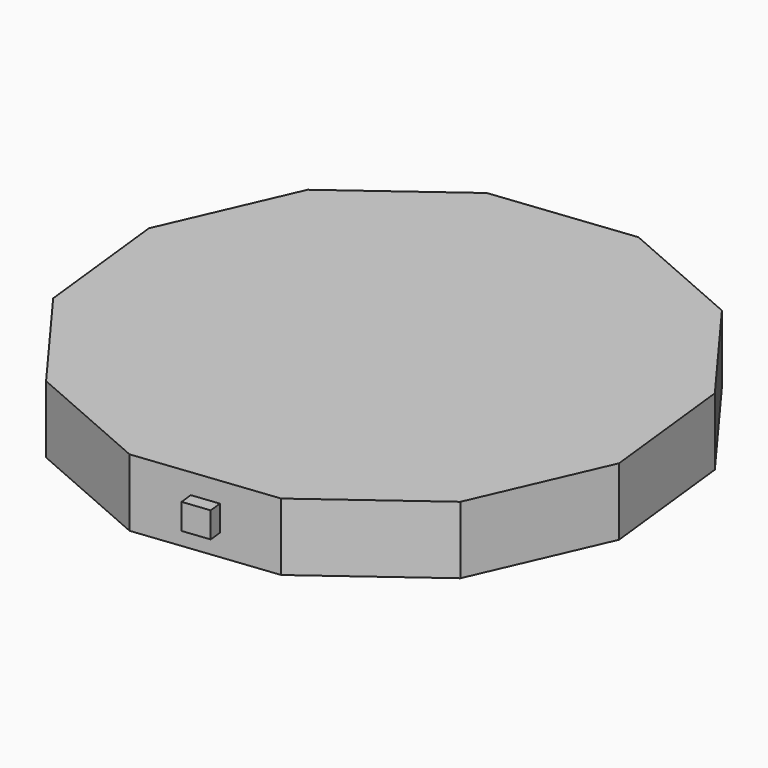
from build123d import *

# Parameters (mm, degrees)
F1_DEPTH = 5
F3_DEPTH = 1
F5_DEPTH = 1


with BuildPart() as f1:
    # F0 (on Top) → F1 (new body)
    with BuildSketch(Plane.XY):
        Polygon((18.706655, 7.32937), (12.535754, 15.700748), (3.005907, 19.865124), (-7.32937, 18.706655), (-15.700748, 12.535754), (-19.865124, 3.005907), (-18.706655, -7.32937), (-12.535754, -15.700748), (-3.005907, -19.865124), (7.32937, -18.706655), (15.700748, -12.535754), (19.865124, -3.005907), align=None)
    extrude(amount=F1_DEPTH)

    # F2 (on face) → F3 (join)
    with BuildSketch(Plane(origin=(-2.161731, 19.285889, 0), x_dir=(-0.993777, -0.111391, 0), z_dir=(-0.111391, 0.993777, 0))):
        Polygon((1, 3.5), (0, 3.5), (-1, 3.5), (-1, 1.5), (0, 1.5), (1, 1.5), align=None)
    extrude(amount=F3_DEPTH)

    # F4 (on face) → F5 (join)
    with BuildSketch(Plane(origin=(2.161731, -19.285889, 0), x_dir=(0.993777, 0.111391, 0), z_dir=(0.111391, -0.993777, 0))):
        Polygon((1, 3.5), (0, 3.5), (-1, 3.5), (-1, 1.597076), (1, 1.597076), align=None)
    extrude(amount=F5_DEPTH)


solid = f1.part
